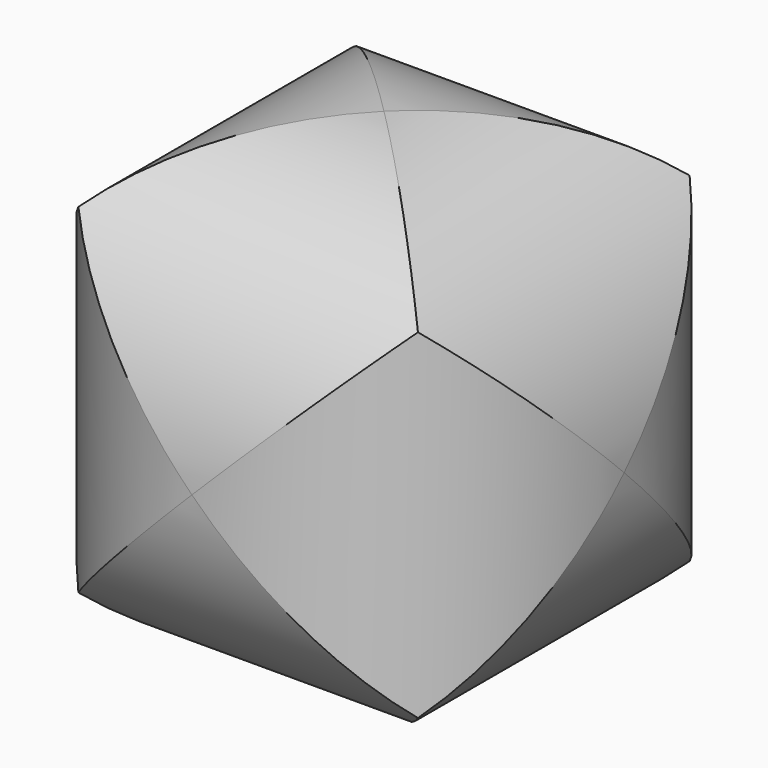
from build123d import *

# Parameters (mm, degrees)
F0_R     = 20
F1_DEPTH = 25
F4_COUNT = 3


with BuildPart() as f1:
    # F0 (on Front) → F1 (new body, symmetric)
    with BuildSketch(Plane.XZ):
        Circle(F0_R)
    extrude(amount=F1_DEPTH, both=True)


with BuildPart() as f4_1:
    # F4: instance of F1
    add(f1.part.rotate(Axis((10, -10, 10), (-0.5773502692, 0.5773502692, -0.5773502692)), 1 * 360 / F4_COUNT))


with BuildPart() as f4_2:
    # F4: instance of F1
    add(f1.part.rotate(Axis((10, -10, 10), (-0.5773502692, 0.5773502692, -0.5773502692)), 2 * 360 / F4_COUNT))


with BuildPart() as f4_1_1:
    add(f4_1.part)

    # F5: intersect F1, F4_2
    add(f1.part, mode=Mode.INTERSECT)
    add(f4_2.part, mode=Mode.INTERSECT)


solid = f4_1_1.part
